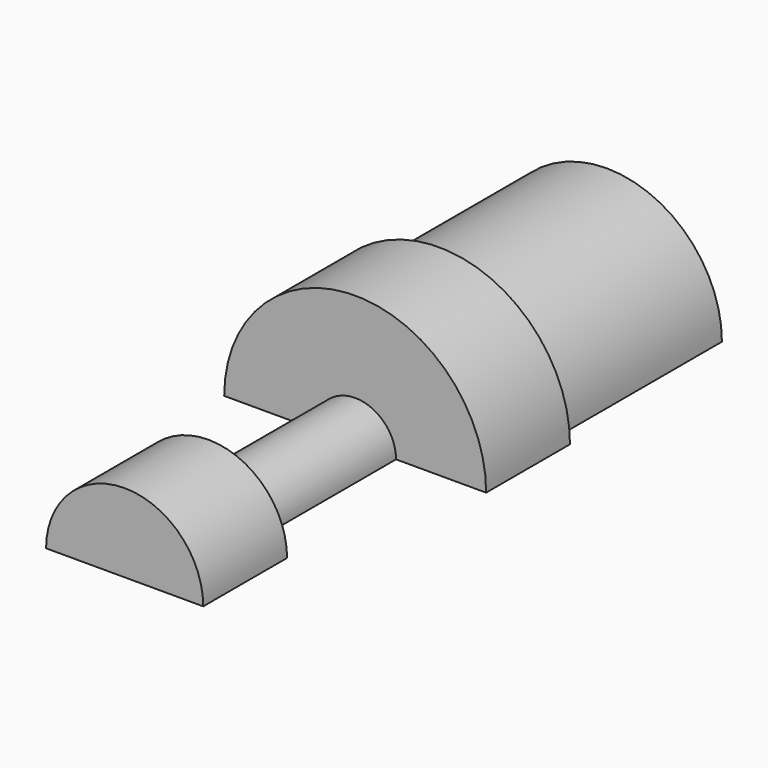
from build123d import *

# Parameters (mm, degrees)
F1_ANGLE = 180


with BuildPart() as f1:
    # F0 (on Right) → F1 (revolve, symmetric)
    with BuildSketch(Plane.YZ) as f1_sk:
        Polygon((-14.605, 0), (0, 0), (0, 2.794), (-5.08, 2.794), (-5.08, 3.175), (-7.62, 3.175), (-7.62, 0.990308), (-12.065, 0.990308), (-12.065, 1.905), (-14.605, 1.905), align=None)
    revolve(axis=Axis((0, -7.3025, 0), (0, -1, 0)), revolution_arc=F1_ANGLE / 2)
    revolve(f1_sk.sketch, axis=Axis((0, -7.3025, 0), (0, 1, 0)), revolution_arc=F1_ANGLE / 2)


solid = f1.part
